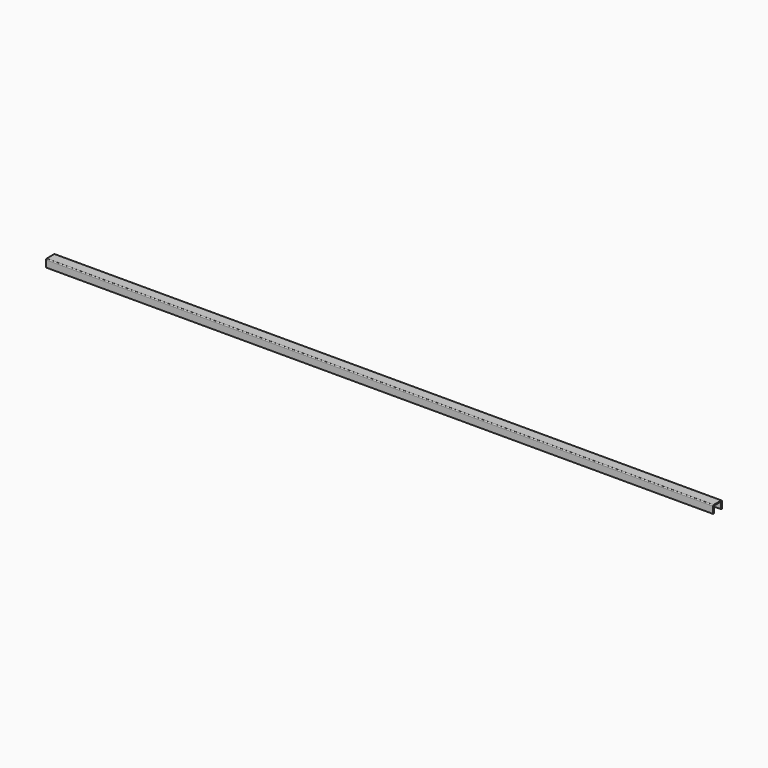
from build123d import *

# Parameters (mm, degrees)
F1_DEPTH = 1270
F2_W     = 1143
F2_H     = 13.208
F3_DEPTH = 1270


with BuildPart() as f1:
    # F0 (on Right) → F1 (new body, symmetric)
    with BuildSketch(Plane.YZ):
        with BuildLine():
            ThreePointArc((-7.9375, 1.524), (-9.015131, 1.077631), (-9.4615, 0))
            Line((-9.4615, 0), (-9.4615, -11.684))
            Line((-9.4615, -11.684), (-7.9375, -11.684))
            Line((-7.9375, -11.684), (-7.9375, 0))
            Line((-7.9375, 0), (7.9375, 0))
            Line((7.9375, 0), (7.9375, -11.684))
            Line((7.9375, -11.684), (9.4615, -11.684))
            Line((9.4615, -11.684), (9.4615, 0))
            ThreePointArc((9.4615, 0), (9.015131, 1.077631), (7.9375, 1.524))
            Line((7.9375, 1.524), (-7.9375, 1.524))
        make_face()
    extrude(amount=F1_DEPTH, both=True)

    # F2 (on Front) → F3 (intersect, symmetric)
    with BuildSketch(Plane.XZ):
        with Locations((0, -5.08)):
            Rectangle(F2_W, F2_H)
    extrude(amount=F3_DEPTH, both=True, mode=Mode.INTERSECT)


solid = f1.part
